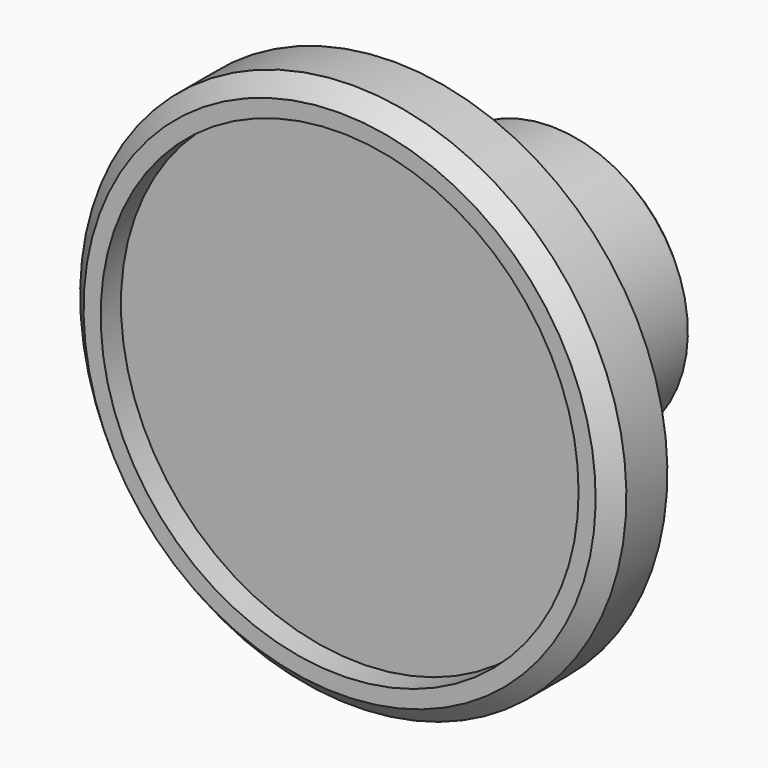
from build123d import *

# Parameters (mm, degrees)
F2_SIZE  = 0.79375
F3_SIZE  = 1.5875
F4_R     = 22.225
F5_DEPTH = 2.3622


with BuildPart() as f1:
    # F0 (on Right) → F1 (revolve)
    with BuildSketch(Plane.YZ):
        Polygon((0, 25.4), (0, 0), (25.4, 0), (25.4, 12.7), (15.875, 12.7), (6.35, 25.4), align=None)
    revolve(axis=Axis((0, 12.7, 0), (0, -1, 0)))

    # F2
    f2_edges = [f1.edges().sort_by_distance(p)[0] for p in [
        (0, 25.4, -12.7),
    ]]
    chamfer(f2_edges, length=F2_SIZE)

    # F3
    f3_edges = [f1.edges().sort_by_distance(p)[0] for p in [
        (0, 0, -25.4),
    ]]
    chamfer(f3_edges, length=F3_SIZE)

    # F4 (on face) → F5 (cut)
    with BuildSketch(Plane.XZ):
        Circle(F4_R)
    extrude(amount=-F5_DEPTH, mode=Mode.SUBTRACT)


solid = f1.part
